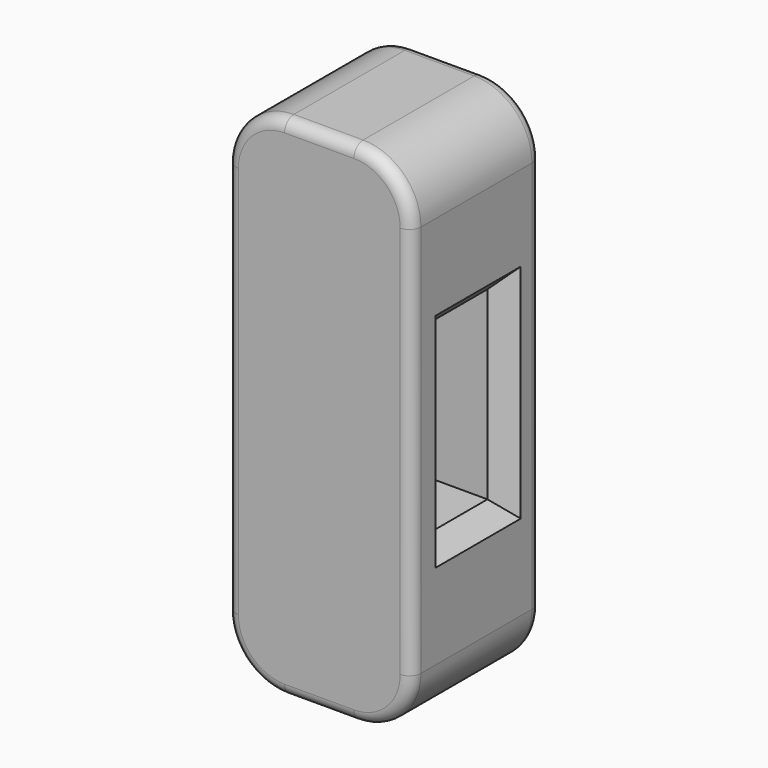
from build123d import *

# Parameters (mm, degrees)
F1_DEPTH = 44.45
F3_R     = 3.175
F2_W     = 19.05
F2_H     = 50.8
F4_DEPTH = 25.401
F5_DEPTH = 25.401
F6_SIZE  = 5.08
F7_SIZE  = 5.08


with BuildPart() as f1:
    # F0 (on Front) → F1 (new body)
    with BuildSketch(Plane.XZ):
        with BuildLine():
            Line((9.525, 69.85), (-9.525, 69.85))
            ThreePointArc((-9.525, 69.85), (-20.75032, 65.20032), (-25.4, 53.975))
            Line((-25.4, 53.975), (-25.4, -53.975))
            ThreePointArc((-25.4, -53.975), (-20.75032, -65.20032), (-9.525, -69.85))
            Line((-9.525, -69.85), (9.525, -69.85))
            ThreePointArc((9.525, -69.85), (20.75032, -65.20032), (25.4, -53.975))
            Line((25.4, -53.975), (25.4, 53.975))
            ThreePointArc((25.4, 53.975), (20.75032, 65.20032), (9.525, 69.85))
        make_face()
    extrude(amount=F1_DEPTH)

    # F3
    f3_edges = [f1.edges().sort_by_distance(p)[0] for p in [
        (-25.4, -44.45, 0),
        (-25.4, -22.225, 53.975),
        (-25.4, -22.225, -53.975),
        (-25.4, 0, 0),
    ]]
    fillet(f3_edges, radius=F3_R)

    # F2 (on Right) → F4 (cut, through all)
    with BuildSketch(Plane.YZ):
        with Locations((-21.621002, 0)):
            Rectangle(F2_W, F2_H)
    extrude(amount=-F4_DEPTH, mode=Mode.SUBTRACT)

    # F2 (on Right) → F5 (cut, through all)
    with BuildSketch(Plane.YZ):
        with Locations((-21.621002, 0)):
            Rectangle(F2_W, F2_H)
    extrude(amount=F5_DEPTH, mode=Mode.SUBTRACT)

    # F6
    f6_edges = [f1.edges().sort_by_distance(p)[0] for p in [
        (-25.4, -21.621002, 25.4),
        (-25.4, -12.096002, 0),
        (-25.4, -31.146002, 0),
        (-25.4, -21.621002, -25.4),
    ]]
    chamfer(f6_edges, length=F6_SIZE)

    # F7
    f7_edges = [f1.edges().sort_by_distance(p)[0] for p in [
        (25.4, -21.621002, 25.4),
        (25.4, -31.146002, 0),
        (25.4, -12.096002, 0),
        (25.4, -21.621002, -25.4),
    ]]
    chamfer(f7_edges, length=F7_SIZE)


solid = f1.part
